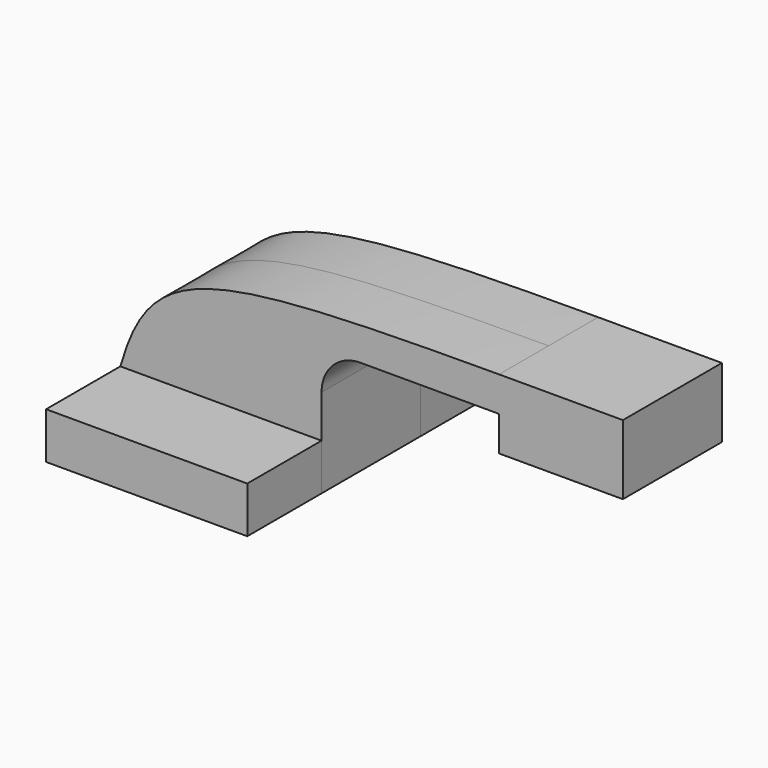
from build123d import *

# Parameters (mm, degrees)
F1_DEPTH = 63.5
F2_DEPTH = 25.4


with BuildPart() as f1:
    # F0 (on Front) → F1 (new body, symmetric)
    with BuildSketch(Plane.XZ):
        Polygon((-41.275, 9.525), (-41.275, -9.525), (41.275, -9.525), (41.275, 9.525), (30.228918, 9.525), align=None)
    extrude(amount=F1_DEPTH, both=True)


with BuildPart() as f2:
    # F0 (on Front) → F2 (new body, symmetric)
    with BuildSketch(Plane.XZ):
        Polygon((-41.275, 9.525), (-41.275, -9.525), (41.275, -9.525), (41.275, 9.525), (30.228918, 9.525), align=None)
        with BuildLine():
            add(Edge.make_bspline(
                [(-41.275, 9.525), (-28.789433, 53.116515), (-6.33367, 56.859143), (114.120605, 57.1627)],
                knots=[0, 0, 0, 0, 162.533518, 162.533518, 162.533518, 162.533518], degree=3))
            Line((-41.275, 9.525), (30.228918, 9.525))
            Line((30.228918, 9.525), (30.228918, 27.0002))
            ThreePointArc((30.228918, 27.0002), (38.113921, 46.036279), (57.15, 53.921282))
            Line((57.15, 53.921282), (114.120605, 53.921282))
            Line((114.120605, 53.921282), (114.120605, 57.1627))
        make_face()
        with BuildLine():
            Line((30.228918, 9.525), (41.275, 9.525))
            Line((41.275, 9.525), (41.275, 27.0002))
            ThreePointArc((41.275, 27.0002), (45.92468, 38.22552), (57.15, 42.8752))
            Line((57.15, 42.8752), (114.120605, 42.8752))
            Line((114.120605, 42.8752), (114.120605, 53.921282))
            Line((114.120605, 53.921282), (57.15, 53.921282))
            ThreePointArc((57.15, 53.921282), (38.113921, 46.036279), (30.228918, 27.0002))
            Line((30.228918, 27.0002), (30.228918, 9.525))
        make_face()
        Polygon((164.920605, 57.1627), (114.120605, 57.1627), (114.120605, 53.921282), (114.120605, 42.8752), (114.120605, 28.5877), (164.920605, 28.5877), align=None)
    extrude(amount=F2_DEPTH, both=True)


solid = Compound([f1.part, f2.part])
